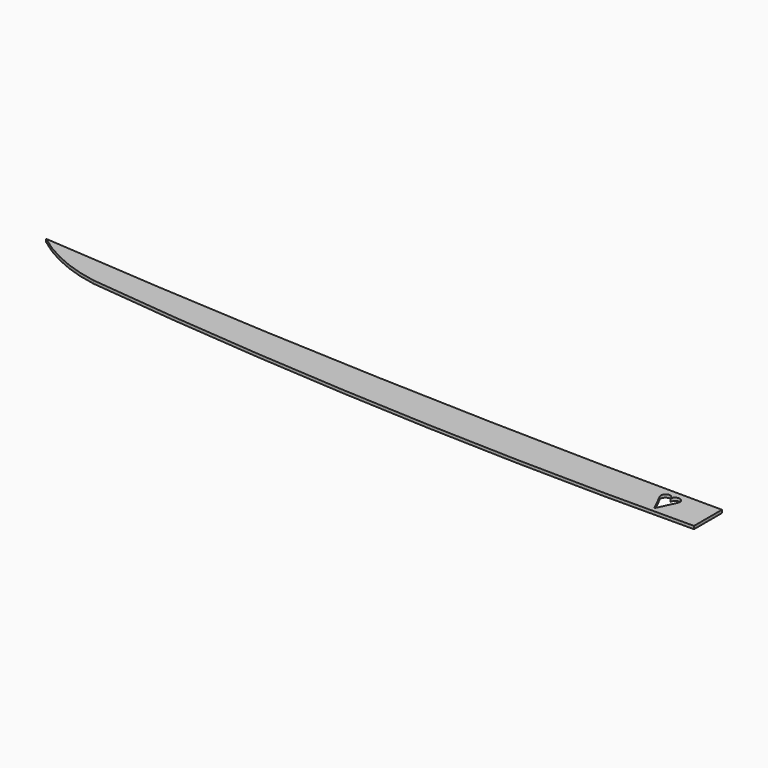
from build123d import *

# Parameters (mm, degrees)
PAD_DEPTH    = 0.34
SKETCH001_W  = 0.156622
SKETCH001_H  = 0.149374
POCKET_DEPTH = 5
POCKET_TAPER = -2


with BuildPart() as part:
    # Sketch → Pad (new body)
    with BuildSketch(Plane.XY):
        with BuildLine():
            Line((0, -4), (0, 0))
            ThreePointArc((-80, 3.226265), (-40.032514, 0.806894), (0, 0))
            ThreePointArc((-80, 3.226265), (-76.048382, 0.88435), (-71.642975, -0.416513))
            ThreePointArc((-71.642975, -0.416513), (-35.876826, -3.314616), (0, -4))
        make_face()
    extrude(amount=PAD_DEPTH)

    # Sketch001 (on Face6 of Pad) → Pocket (cut)
    with BuildSketch(Plane.XY.offset(0.34)):
        with Locations((28.704066, -26.028716)):
            Rectangle(SKETCH001_W, SKETCH001_H)
        with BuildLine():
            ThreePointArc((-4.941031, -1.182712), (-5.617721, -0.719636), (-5.947757, -1.470253))
            Line((-4.911924, -3.539593), (-5.947757, -1.470253))
            Line((-4.911924, -3.539593), (-3.916345, -1.422037))
            ThreePointArc((-3.916345, -1.422037), (-4.280826, -0.669294), (-4.941031, -1.182712))
        make_face()
    extrude(amount=-POCKET_DEPTH, taper=POCKET_TAPER, mode=Mode.SUBTRACT)


solid = part.part
